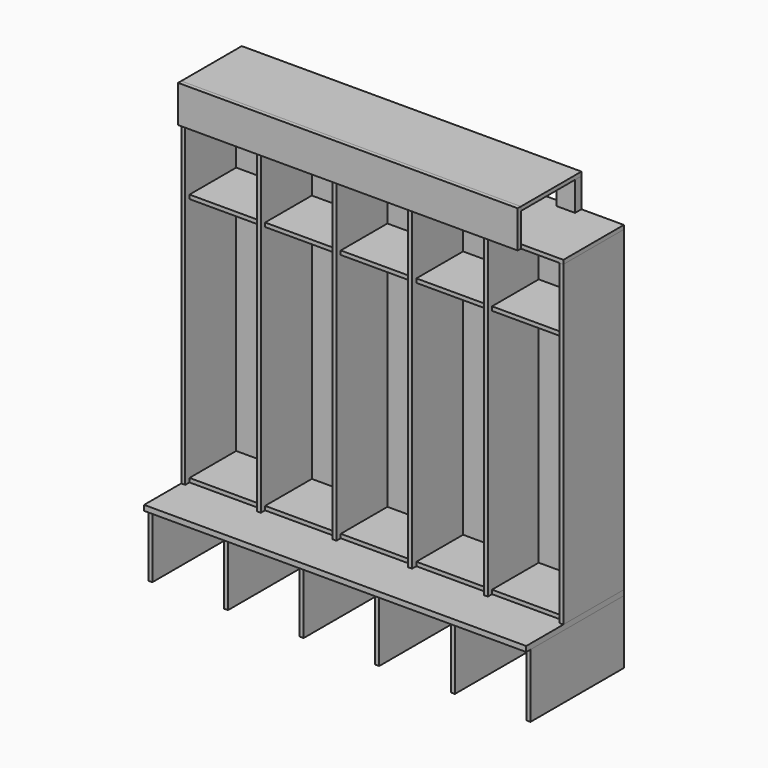
from build123d import *

# Parameters (mm, degrees)
F0_W          = 19.05
F0_H          = 1519.2547512531
F1_DEPTH      = 285.75
F1_DEPTH_BACK = 19.05
F2_W          = 1828.8
F2_H          = 25.4
F3_DEPTH      = 76.2
F3_DEPTH_BACK = 508
F4_W          = 19.05
F4_H          = 304.8
F5_DEPTH      = 482.6
F5_DEPTH_BACK = 76.2
F6_W          = 1790.7
F6_H          = 88.9
F7_DEPTH      = 38.1
F8_W          = 19.05
F8_H          = 1517.65
F9_DEPTH      = 361.95
F10_W         = 1790.7
F10_H         = 19.05
F11_DEPTH     = 1517.65
F12_W         = 342.9
F12_H         = 19.05
F13_DEPTH     = 279.4
F15_DEPTH     = 19.05
F16_W         = 1625.6
F16_H         = 19.05
F17_DEPTH     = 361.95
F16_W_2       = 1828.8
F18_W         = 88.9
F18_H         = 1339.85
F19_DEPTH     = 38.1
F20_W         = 768.35
F20_H         = 88.9
F21_DEPTH     = 38.1
F20_W_2       = 755.65
F22_W         = 88.9
F22_H         = 139.7
F23_DEPTH     = 38.1
F24_W         = 342.9
F24_H         = 19.05
F25_DEPTH     = 279.4


with BuildPart() as f1:
    # F0 (on Front) → F1 (new body, two sides)
    with BuildSketch(Plane.XZ) as f1_sk:
        with Locations((-610.5938067296, 1089.8273756266)):
            Rectangle(F0_W, F0_H)
    extrude(amount=F1_DEPTH)
    extrude(f1_sk.sketch, amount=-F1_DEPTH_BACK)


with BuildPart() as f1b:
    # F0 (on Front) → F1, piece 2 (new body, two sides)
    with BuildSketch(Plane.XZ) as f1_2_sk:
        with Locations((-248.6438067296, 1089.8273756266)):
            Rectangle(F0_W, F0_H)
    extrude(amount=F1_DEPTH)
    extrude(f1_2_sk.sketch, amount=-F1_DEPTH_BACK)


with BuildPart() as f1c:
    # F0 (on Front) → F1, piece 3 (new body, two sides)
    with BuildSketch(Plane.XZ) as f1_3_sk:
        with Locations((113.3061932704, 1089.8273756266)):
            Rectangle(F0_W, F0_H)
    extrude(amount=F1_DEPTH)
    extrude(f1_3_sk.sketch, amount=-F1_DEPTH_BACK)


with BuildPart() as f1d:
    # F0 (on Front) → F1, piece 4 (new body, two sides)
    with BuildSketch(Plane.XZ) as f1_4_sk:
        with Locations((475.2561932704, 1089.8273756266)):
            Rectangle(F0_W, F0_H)
    extrude(amount=F1_DEPTH)
    extrude(f1_4_sk.sketch, amount=-F1_DEPTH_BACK)


with BuildPart() as f3:
    # F2 (on Front) → F3 (new body, two sides)
    with BuildSketch(Plane.XZ) as f3_sk:
        with Locations((-67.6688067296, 317.5)):
            Rectangle(F2_W, F2_H)
    extrude(amount=-F3_DEPTH)
    extrude(f3_sk.sketch, amount=F3_DEPTH_BACK)


with BuildPart() as f5:
    # F4 (on Front) → F5 (new body, two sides)
    with BuildSketch(Plane.XZ) as f5_sk:
        with Locations((-972.5438067296, 152.4)):
            Rectangle(F4_W, F4_H)
    extrude(amount=F5_DEPTH)
    extrude(f5_sk.sketch, amount=-F5_DEPTH_BACK)


with BuildPart() as f5b:
    # F4 (on Front) → F5, piece 2 (new body, two sides)
    with BuildSketch(Plane.XZ) as f5_2_sk:
        with Locations((-610.5938067296, 152.4)):
            Rectangle(F4_W, F4_H)
    extrude(amount=F5_DEPTH)
    extrude(f5_2_sk.sketch, amount=-F5_DEPTH_BACK)


with BuildPart() as f5c:
    # F4 (on Front) → F5, piece 3 (new body, two sides)
    with BuildSketch(Plane.XZ) as f5_3_sk:
        with Locations((-248.6438067296, 152.4)):
            Rectangle(F4_W, F4_H)
    extrude(amount=F5_DEPTH)
    extrude(f5_3_sk.sketch, amount=-F5_DEPTH_BACK)


with BuildPart() as f5d:
    # F4 (on Front) → F5, piece 4 (new body, two sides)
    with BuildSketch(Plane.XZ) as f5_4_sk:
        with Locations((113.3061932704, 152.4)):
            Rectangle(F4_W, F4_H)
    extrude(amount=F5_DEPTH)
    extrude(f5_4_sk.sketch, amount=-F5_DEPTH_BACK)


with BuildPart() as f5e:
    # F4 (on Front) → F5, piece 5 (new body, two sides)
    with BuildSketch(Plane.XZ) as f5_5_sk:
        with Locations((475.2561932704, 152.4)):
            Rectangle(F4_W, F4_H)
    extrude(amount=F5_DEPTH)
    extrude(f5_5_sk.sketch, amount=-F5_DEPTH_BACK)


with BuildPart() as f5f:
    # F4 (on Front) → F5, piece 6 (new body, two sides)
    with BuildSketch(Plane.XZ) as f5_6_sk:
        with Locations((837.2061932704, 152.4)):
            Rectangle(F4_W, F4_H)
    extrude(amount=F5_DEPTH)
    extrude(f5_6_sk.sketch, amount=-F5_DEPTH_BACK)


with BuildPart() as f7:
    # F6 (on face) → F7 (new body)
    with BuildSketch(Plane(origin=(0, 76.2, 0), x_dir=(-1, 0, 0), z_dir=(0, 1, 0))):
        with Locations((67.6688067296, 1803.4)):
            Rectangle(F6_W, F6_H)
    extrude(amount=-F7_DEPTH)


with BuildPart() as f7b:
    # F6 (on face) → F7, piece 2 (new body)
    with BuildSketch(Plane(origin=(0, 76.2, 0), x_dir=(-1, 0, 0), z_dir=(0, 1, 0))):
        with Locations((67.6688067296, 374.65)):
            Rectangle(F6_W, F6_H)
    extrude(amount=-F7_DEPTH)


with BuildPart() as f7c:
    # F6 (on face) → F7, piece 3 (new body)
    with BuildSketch(Plane(origin=(0, 76.2, 0), x_dir=(-1, 0, 0), z_dir=(0, 1, 0))):
        with Locations((67.6688067296, 44.45)):
            Rectangle(F6_W, F6_H)
    extrude(amount=-F7_DEPTH)


with BuildPart() as f7d:
    # F6 (on face) → F7, piece 4 (new body)
    with BuildSketch(Plane(origin=(0, 76.2, 0), x_dir=(-1, 0, 0), z_dir=(0, 1, 0))):
        with Locations((67.6688067296, 260.35)):
            Rectangle(F6_W, F6_H)
    extrude(amount=-F7_DEPTH)


with BuildPart() as f9:
    # F8 (on face) → F9 (new body)
    with BuildSketch(Plane.XZ.offset(285.75)):
        with Locations((-972.5438067296, 1089.025)):
            Rectangle(F8_W, F8_H)
    extrude(amount=-F9_DEPTH)


with BuildPart() as f9b:
    # F8 (on face) → F9, piece 2 (new body)
    with BuildSketch(Plane.XZ.offset(285.75)):
        with Locations((837.2061932704, 1089.025)):
            Rectangle(F8_W, F8_H)
    extrude(amount=-F9_DEPTH)


with BuildPart() as f11:
    # F10 (on face) → F11 (new body, through all)
    with BuildSketch(Plane.XY.offset(330.2)):
        with Locations((-67.6688067296, 28.575)):
            Rectangle(F10_W, F10_H)
    extrude(amount=F11_DEPTH)


with BuildPart() as f13:
    # F12 (on face) → F13 (new body)
    with BuildSketch(Plane.XZ.offset(-19.05)):
        with Locations((-791.5688067296, 1533.525)):
            Rectangle(F12_W, F12_H)
    extrude(amount=F13_DEPTH)


with BuildPart() as f13b:
    # F12 (on face) → F13, piece 2 (new body)
    with BuildSketch(Plane.XZ.offset(-19.05)):
        with Locations((-429.6188067296, 1533.525)):
            Rectangle(F12_W, F12_H)
    extrude(amount=F13_DEPTH)


with BuildPart() as f13c:
    # F12 (on face) → F13, piece 3 (new body)
    with BuildSketch(Plane.XZ.offset(-19.05)):
        with Locations((-67.6688067296, 1533.525)):
            Rectangle(F12_W, F12_H)
    extrude(amount=F13_DEPTH)


with BuildPart() as f13d:
    # F12 (on face) → F13, piece 4 (new body)
    with BuildSketch(Plane.XZ.offset(-19.05)):
        with Locations((294.2811932704, 1533.525)):
            Rectangle(F12_W, F12_H)
    extrude(amount=F13_DEPTH)


with BuildPart() as f13e:
    # F12 (on face) → F13, piece 5 (new body)
    with BuildSketch(Plane.XZ.offset(-19.05)):
        with Locations((656.2311932704, 1533.525)):
            Rectangle(F12_W, F12_H)
    extrude(amount=F13_DEPTH)


with BuildPart() as f15:
    # F14 (on face) → F15 (new body)
    with BuildSketch(Plane.XZ.offset(285.75)):
        Polygon((-982.0688067296, 2025.65), (-982.0688067296, 1847.85), (-963.0188067296, 1847.85), (643.5311932704, 1847.85), (643.5311932704, 2025.65), align=None)
    extrude(amount=F15_DEPTH)


with BuildPart() as f17:
    # F16 (on face) → F17 (new body, through all)
    with BuildSketch(Plane(origin=(0, -285.75, 0), x_dir=(-1, 0, 0), z_dir=(0, 1, 0))):
        with Locations((169.2688067296, 2016.125)):
            Rectangle(F16_W, F16_H)
    extrude(amount=F17_DEPTH)


with BuildPart() as f17b:
    # F16 (on face) → F17, piece 2 (new body, through all)
    with BuildSketch(Plane(origin=(0, -285.75, 0), x_dir=(-1, 0, 0), z_dir=(0, 1, 0))):
        with Locations((67.6688067296, 1857.375)):
            Rectangle(F16_W_2, F16_H)
    extrude(amount=F17_DEPTH)


with BuildPart() as f19:
    # F18 (on face) → F19 (new body)
    with BuildSketch(Plane(origin=(0, 38.1, 0), x_dir=(-1, 0, 0), z_dir=(0, 1, 0))):
        with Locations((-783.2311932704, 1089.025)):
            Rectangle(F18_W, F18_H)
    extrude(amount=F19_DEPTH)


with BuildPart() as f19b:
    # F18 (on face) → F19, piece 2 (new body)
    with BuildSketch(Plane(origin=(0, 38.1, 0), x_dir=(-1, 0, 0), z_dir=(0, 1, 0))):
        with Locations((918.5688067296, 1089.025)):
            Rectangle(F18_W, F18_H)
    extrude(amount=F19_DEPTH)


with BuildPart() as f19c:
    # F18 (on face) → F19, piece 3 (new body)
    with BuildSketch(Plane(origin=(0, 38.1, 0), x_dir=(-1, 0, 0), z_dir=(0, 1, 0))):
        with Locations((74.0188067296, 1089.025)):
            Rectangle(F18_W, F18_H)
    extrude(amount=F19_DEPTH)


with BuildPart() as f21:
    # F20 (on face) → F21 (new body)
    with BuildSketch(Plane(origin=(0, 38.1, 0), x_dir=(-1, 0, 0), z_dir=(0, 1, 0))):
        with Locations((-354.6061932704, 1466.85)):
            Rectangle(F20_W, F20_H)
    extrude(amount=F21_DEPTH)


with BuildPart() as f21b:
    # F20 (on face) → F21, piece 2 (new body)
    with BuildSketch(Plane(origin=(0, 38.1, 0), x_dir=(-1, 0, 0), z_dir=(0, 1, 0))):
        with Locations((496.2938067296, 1466.85)):
            Rectangle(F20_W_2, F20_H)
    extrude(amount=F21_DEPTH)


with BuildPart() as f21c:
    # F20 (on face) → F21, piece 3 (new body)
    with BuildSketch(Plane(origin=(0, 38.1, 0), x_dir=(-1, 0, 0), z_dir=(0, 1, 0))):
        with Locations((-354.6061932704, 806.45)):
            Rectangle(F20_W, F20_H)
    extrude(amount=F21_DEPTH)


with BuildPart() as f21d:
    # F20 (on face) → F21, piece 4 (new body)
    with BuildSketch(Plane(origin=(0, 38.1, 0), x_dir=(-1, 0, 0), z_dir=(0, 1, 0))):
        with Locations((496.2938067296, 806.45)):
            Rectangle(F20_W_2, F20_H)
    extrude(amount=F21_DEPTH)


with BuildPart() as f23:
    # F22 (on face) → F23 (new body)
    with BuildSketch(Plane(origin=(0, 76.2, 0), x_dir=(-1, 0, 0), z_dir=(0, 1, 0))):
        with Locations((74.0188067296, 1936.75)):
            Rectangle(F22_W, F22_H)
    extrude(amount=-F23_DEPTH)


with BuildPart() as f23b:
    # F22 (on face) → F23, piece 2 (new body)
    with BuildSketch(Plane(origin=(0, 76.2, 0), x_dir=(-1, 0, 0), z_dir=(0, 1, 0))):
        with Locations((918.5688067296, 1936.75)):
            Rectangle(F22_W, F22_H)
    extrude(amount=-F23_DEPTH)


with BuildPart() as f23c:
    # F22 (on face) → F23, piece 3 (new body)
    with BuildSketch(Plane(origin=(0, 76.2, 0), x_dir=(-1, 0, 0), z_dir=(0, 1, 0))):
        with Locations((-599.0811932704, 1936.75)):
            Rectangle(F22_W, F22_H)
    extrude(amount=-F23_DEPTH)


with BuildPart() as f25:
    # F24 (on face) → F25 (new body, through all)
    with BuildSketch(Plane.XZ.offset(-19.05)):
        with Locations((-791.5688067296, 339.725)):
            Rectangle(F24_W, F24_H)
    extrude(amount=F25_DEPTH)


with BuildPart() as f25b:
    # F24 (on face) → F25, piece 2 (new body, through all)
    with BuildSketch(Plane.XZ.offset(-19.05)):
        with Locations((-67.6688067296, 339.725)):
            Rectangle(F24_W, F24_H)
    extrude(amount=F25_DEPTH)


with BuildPart() as f25c:
    # F24 (on face) → F25, piece 3 (new body, through all)
    with BuildSketch(Plane.XZ.offset(-19.05)):
        with Locations((656.2311932704, 339.725)):
            Rectangle(F24_W, F24_H)
    extrude(amount=F25_DEPTH)


with BuildPart() as f25d:
    # F24 (on face) → F25, piece 4 (new body, through all)
    with BuildSketch(Plane.XZ.offset(-19.05)):
        with Locations((294.2811932704, 339.725)):
            Rectangle(F24_W, F24_H)
    extrude(amount=F25_DEPTH)


with BuildPart() as f25e:
    # F24 (on face) → F25, piece 5 (new body, through all)
    with BuildSketch(Plane.XZ.offset(-19.05)):
        with Locations((-429.6188067296, 339.725)):
            Rectangle(F24_W, F24_H)
    extrude(amount=F25_DEPTH)


solid = Compound([f1.part, f1b.part, f1c.part, f1d.part, f3.part, f5.part, f5b.part, f5c.part, f5d.part, f5e.part, f5f.part, f7.part, f7b.part, f7c.part, f7d.part, f9.part, f9b.part, f11.part, f13.part, f13b.part, f13c.part, f13d.part, f13e.part, f15.part, f17.part, f17b.part, f19.part, f19b.part, f19c.part, f21.part, f21b.part, f21c.part, f21d.part, f23.part, f23b.part, f23c.part, f25.part, f25b.part, f25c.part, f25d.part, f25e.part])
